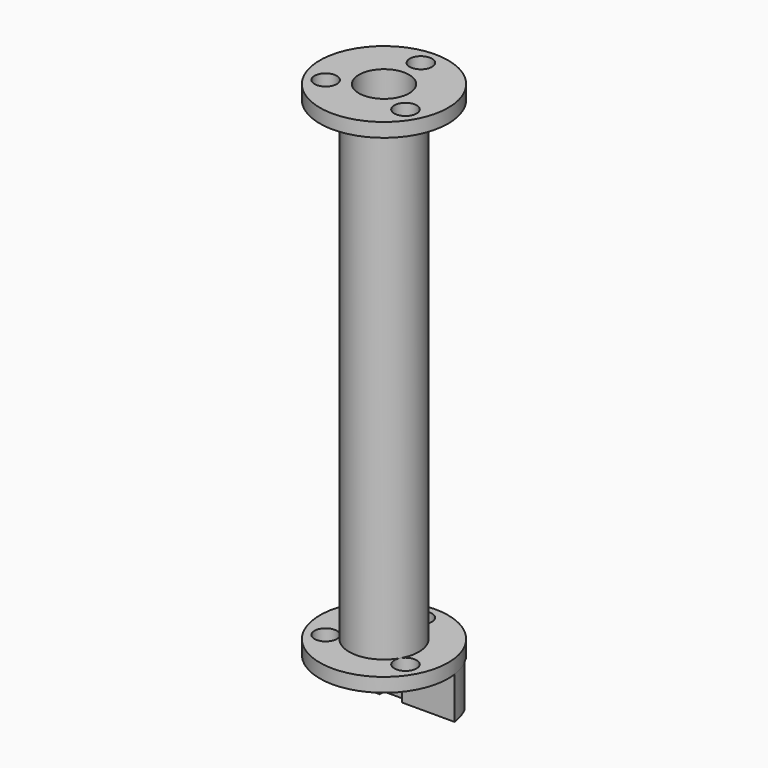
from build123d import *

# Parameters (mm, degrees)
F0_W     = 3.5
F0_H     = 170
F3_DEPTH = 15
F5_D     = 3.2
F7_D     = 8


with BuildPart() as f1:
    # F0 (on Front) → F1 (revolve)
    with BuildSketch(Plane.XZ):
        with Locations((10.75, 0)):
            Rectangle(F0_W, F0_H)
        Polygon((9, 90), (9, 85), (12.5, 85), (23, 85), (23, 90), align=None)
        Polygon((12.5, -85), (9, -85), (9, -90), (23, -90), (23, -85), align=None)
    revolve(axis=Axis((0, 0, 0), (0, 0, -1)))

    # F2 (on face) → F3 (join)
    with BuildSketch(Plane(origin=(0, 0, -90), x_dir=(1, 0, 0), z_dir=(0, 0, -1))):
        with BuildLine():
            ThreePointArc((-22.793060873, -3.0783723037), (-22.0098278753, -6.6758877236), (-20.6625952799, -10.1023342006))
            Line((-20.6625952799, -10.1023342006), (20.6625952799, -10.1023342006))
            ThreePointArc((20.6625952799, -10.1023342006), (22.0098278753, -6.6758877236), (22.793060873, -3.0783723037))
            Line((22.793060873, -3.0783723037), (4, -3.0783723037))
            Line((4, -3.0783723037), (4, -5.0783723037))
            Line((4, -5.0783723037), (-4, -5.0783723037))
            Line((-4, -5.0783723037), (-4, -3.0783723037))
            Line((-4, -3.0783723037), (-22.793060873, -3.0783723037))
        make_face()
    extrude(amount=F3_DEPTH)

    # F5 (through all)
    with Locations(Plane.XZ.offset(-3.0783723037)):
        with Locations((-7.4993308043, -95), (7.5006691957, -95)):
            Hole(F5_D / 2)

    # F7 (through all)
    with Locations(Plane.XY.offset(90)):
        with Locations((-14.2894191624, -8.25), (0, 16.5), (14.2894191624, -8.25)):
            Hole(F7_D / 2)


solid = f1.part
